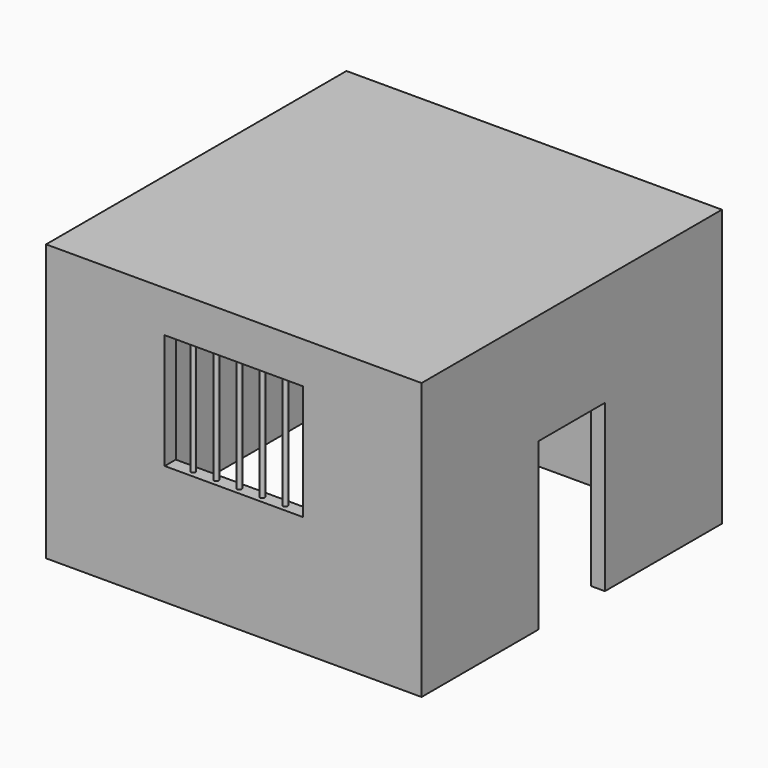
from build123d import *

# Parameters (mm, degrees)
F0_W     = 4140.2
F0_H     = 4140.2
F1_DEPTH = 3048
F2_W     = 1524
F2_H     = 1270
F3_DEPTH = 152.4
F4_W     = 3835.4
F4_H     = 3835.4
F5_DEPTH = 2895.6
F6_R     = 25.4
F7_DEPTH = 1270
F8_W     = 914.4
F8_H     = 3657.6
F9_DEPTH = 152.4


with BuildPart() as f1:
    # F0 (on Top) → F1 (new body)
    with BuildSketch(Plane.XY):
        Rectangle(F0_W, F0_H)
    extrude(amount=F1_DEPTH)

    # F2 (on face) → F3 (cut)
    with BuildSketch(Plane.XZ.offset(2070.1)):
        with Locations((0, 1956.513322)):
            Rectangle(F2_W, F2_H)
    extrude(amount=-F3_DEPTH, mode=Mode.SUBTRACT)

    # F4 (on face) → F5 (cut)
    with BuildSketch(Plane(origin=(0, 0, 0), x_dir=(1, 0, 0), z_dir=(0, 0, -1))):
        Rectangle(F4_W, F4_H)
    extrude(amount=-F5_DEPTH, mode=Mode.SUBTRACT)

    # F6 (on face) → F7 (join)
    with BuildSketch(Plane.XY.offset(1321.513322)):
        with Locations((-508, -1993.9)):
            Circle(F6_R)
        with Locations((0, -1993.9)):
            Circle(F6_R)
        with Locations((508, -1993.9)):
            Circle(F6_R)
        with Locations((-254, -1993.9)):
            Circle(F6_R)
        with Locations((254, -1993.9)):
            Circle(F6_R)
    extrude(amount=F7_DEPTH)

    # F8 (on face) → F9 (cut)
    with BuildSketch(Plane.YZ.offset(2070.1)):
        Rectangle(F8_W, F8_H)
    extrude(amount=-F9_DEPTH, mode=Mode.SUBTRACT)


solid = f1.part
